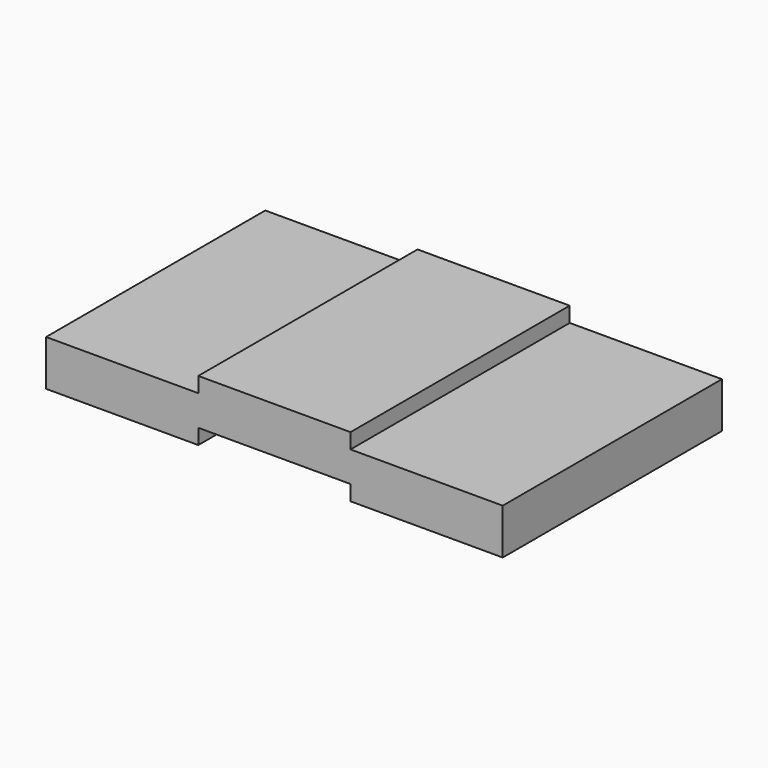
from build123d import *

# Parameters (mm, degrees)
F1_DEPTH = 45.72
F4_DEPTH = 45.721
F7_DEPTH = 45.72


with BuildPart() as f1:
    # F0 (on Front) → F1 (new body)
    with BuildSketch(Plane.XZ):
        Polygon((-38.1, 0), (0, 0), (38.1, 0), (38.1, 7.62), (-38.1, 7.62), align=None)
    extrude(amount=-F1_DEPTH)

    # F3 (on offset) → F4 (cut, through all)
    with BuildSketch(Plane.XZ):
        Polygon((-12.7, 0), (0, 0), (12.7, 0), (12.7, 2.54), (-12.7, 2.54), align=None)
    extrude(amount=-F4_DEPTH, mode=Mode.SUBTRACT)

    # F6 (on offset) → F7 (join)
    with BuildSketch(Plane.XZ):
        Polygon((-12.7, 7.62), (0, 7.62), (12.7, 7.62), (12.7, 10.16), (-12.7, 10.16), align=None)
    extrude(amount=-F7_DEPTH)


solid = f1.part
